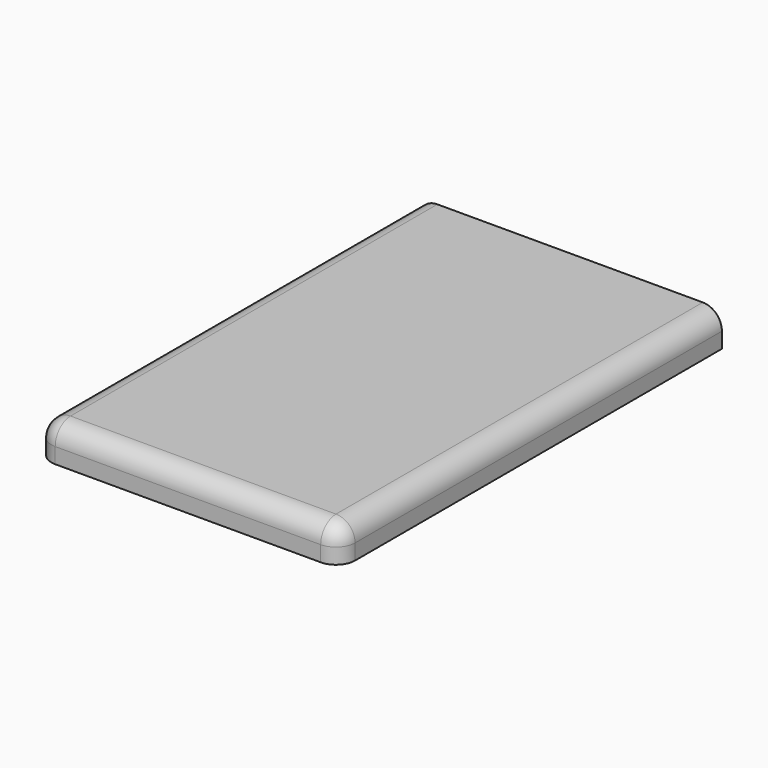
from build123d import *

# Parameters (mm, degrees)
F0_W     = 80.747418
F0_H     = 9.217742
F1_DEPTH = 127
F2_R     = 5.08
F3_R     = 5.08
F4_R     = 5.08


with BuildPart() as f1:
    # F0 (on Front) → F1 (new body)
    with BuildSketch(Plane.XZ):
        Rectangle(F0_W, F0_H)
    extrude(amount=F1_DEPTH)

    # F2
    f2_edges = [f1.edges().sort_by_distance(p)[0] for p in [
        (0, -127, 4.608871),
    ]]
    fillet(f2_edges, radius=F2_R)

    # F3
    f3_edges = [f1.edges().sort_by_distance(p)[0] for p in [
        (40.373709, -60.96, 4.608871),
    ]]
    fillet(f3_edges, radius=F3_R)

    # F4
    f4_edges = [f1.edges().sort_by_distance(p)[0] for p in [
        (-40.373709, -60.96, 4.608871),
    ]]
    fillet(f4_edges, radius=F4_R)


solid = f1.part
